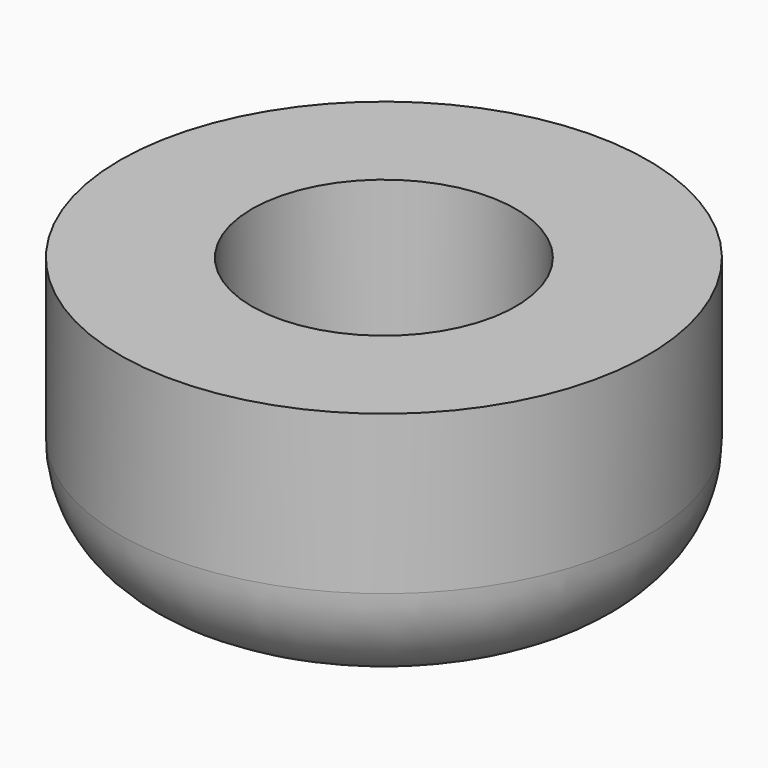
from build123d import *

# Parameters (mm, degrees)
F0_W     = 1.5875
F0_H     = 3.175
F2_R     = 1.27
F3_SIZE2 = 0.254
F3_SIZE  = 0.508


with BuildPart() as f1:
    # F0 (on Front) → F1 (revolve)
    with BuildSketch(Plane.XZ):
        with Locations((-2.38125, 1.5875)):
            Rectangle(F0_W, F0_H)
    revolve(axis=Axis((0, 0, 3.3253985457), (0, 0, 1)))

    # F2
    f2_edges = [f1.edges().sort_by_distance(p)[0] for p in [
        (3.175, 0, 0),
    ]]
    fillet(f2_edges, radius=F2_R)

    # F3
    f3_edges = [f1.edges().sort_by_distance(p)[0] for p in [
        (1.5875, 0, 0),
    ]]
    f3_side = f1.faces().sort_by_distance((1.5875, 0, 1.5875))[0]
    chamfer(f3_edges, length=F3_SIZE, length2=F3_SIZE2, reference=f3_side)


solid = f1.part
